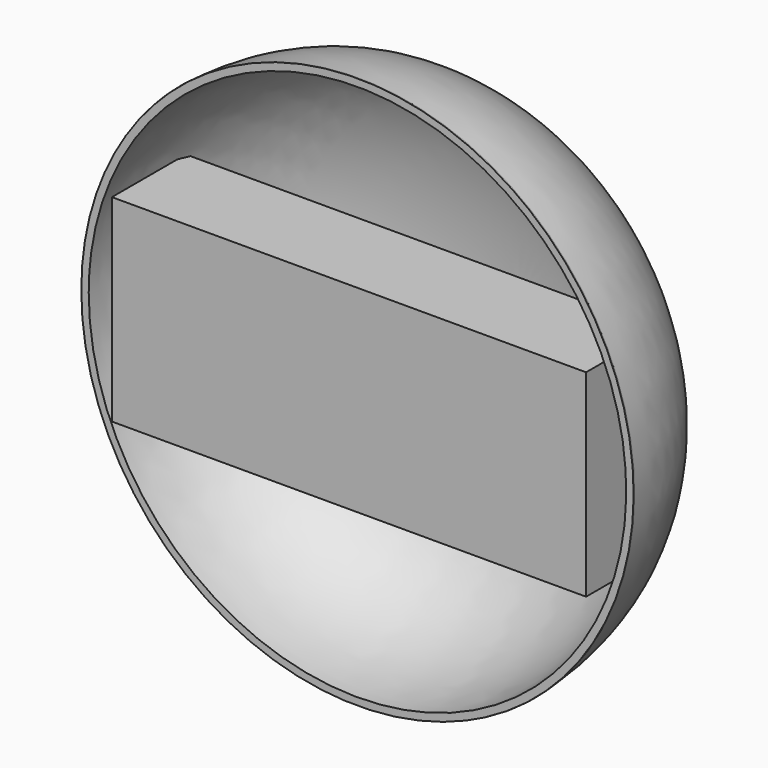
from build123d import *

# Parameters (mm, degrees)
SKETCH001_W        = 60
SKETCH001_H        = 25
PAD_DEPTH          = 11.7
SKETCH003_W        = 90.24387
SKETCH003_H        = 7.754453
PAD001_DEPTH       = 50
FILLET_R           = 2
SKETCH002_R        = 0.8
POCKET_DEPTH       = 5
POLARPATTERN_COUNT = 10


with BuildPart() as board_dummy:
    # Sketch001 → Pad (new body)
    with BuildSketch(Plane.XZ):
        Rectangle(SKETCH001_W, SKETCH001_H)
    extrude(amount=-PAD_DEPTH)


with BuildPart() as board_dummy_1:
    # Body001 placement: moved
    add(board_dummy.part.moved(Location((0, 0.6, 0))))


with BuildPart() as masque:
    # Sketch003 → Pad001 (new body, symmetric)
    with BuildSketch(Plane.XY):
        with Locations((2.109163, -1.937115)):
            Rectangle(SKETCH003_W, SKETCH003_H)
    extrude(amount=PAD001_DEPTH, both=True)


with BuildPart() as cut:
    # Sketch → Revolution (revolve)
    with BuildSketch(Plane.XY):
        with BuildLine():
            Line((0, 0), (-35, 0))
            add(Edge.make_bspline(
                [(-35, 0), (-35, 27), (0, 27)],
                knots=[0, 0, 0, 1, 1, 1], degree=2))
            Line((0, 27), (0, 26.6))
            add(Edge.make_bspline(
                [(0, 26.6), (-34.6, 26.6), (-34, 0.6)],
                knots=[0, 0, 0, 1, 1, 1], degree=2))
            Line((-34, 0.6), (0, 0.6))
            Line((0, 0.6), (0, 0))
        make_face()
    revolve(axis=Axis((0, 0, 0), (0, 1, 0)))

    # Fillet
    fillet_edges = [cut.edges().sort_by_distance(p)[0] for p in [
        (35, 0, 0),
    ]]
    fillet(fillet_edges, radius=FILLET_R)

    # Sketch002 (on Face1 of Fillet) → Pocket (cut)
    with BuildSketch(Plane.XZ):
        with Locations((0.059124, 30)):
            Circle(SKETCH002_R)
    pocket = extrude(amount=-POCKET_DEPTH, mode=Mode.SUBTRACT)

    # PolarPattern: Pocket ×10 about axis
    polarpattern_axis = Axis((0, 0, 0), (0, 1, 0))
    for i in range(1, POLARPATTERN_COUNT):
        add(pocket.rotate(polarpattern_axis, i * 360 / POLARPATTERN_COUNT), mode=Mode.SUBTRACT)

    # Cut: cut masque
    add(masque.part, mode=Mode.SUBTRACT)


solid = Compound([board_dummy_1.part, cut.part])
